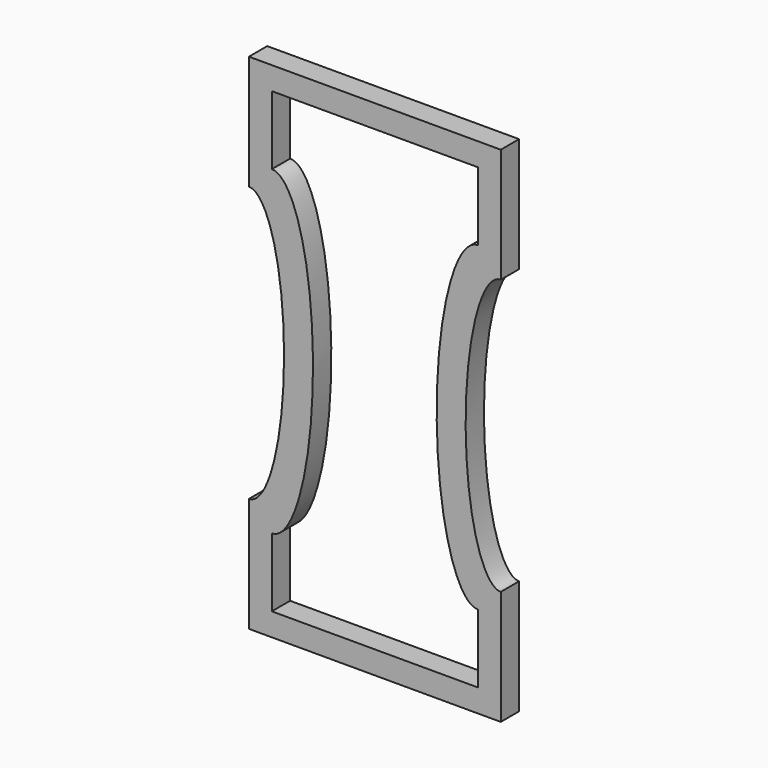
from build123d import *

# Parameters (mm, degrees)
F1_DEPTH = 6.35


with BuildPart() as f1:
    # F0 (on Front) → F1 (new body)
    with BuildSketch(Plane.XZ):
        with BuildLine():
            Line((-38.3565626979, 98.1763608873), (-108.2065626979, 98.1763608873))
            Line((-108.2065626979, 98.1763608873), (-108.2065626979, 66.4263608873))
            add(Edge.make_bspline(
                [(-107.7586281616, 66.3861143566), (-107.9824770745, 66.4263608873), (-108.2065626979, 66.4263608873)],
                knots=[6.2372173746, 6.2372173746, 6.2372173746, 6.2831853072, 6.2831853072, 6.2831853072], degree=2, weights=[1, 0.9997358803, 1]))
            add(Edge.make_bspline(
                [(-107.7586281616, -9.7333925821), (-98.4586297138, -8.0613153421), (-98.4586297138, 28.3263608873), (-98.4586297138, 64.7140371166), (-107.7586281616, 66.3861143566)],
                knots=[3.1875605862, 3.1875605862, 3.1875605862, 4.7123889804, 4.7123889804, 6.2372173746, 6.2372173746, 6.2372173746], degree=2, weights=[1, 0.7231707079, 1, 0.7231707079, 1]))
            add(Edge.make_bspline(
                [(-108.2065626979, -9.7736391127), (-107.9824770745, -9.7736391127), (-107.7586281616, -9.7333925821)],
                knots=[3.1415926536, 3.1415926536, 3.1415926536, 3.1875605862, 3.1875605862, 3.1875605862], degree=2, weights=[1, 0.9997358803, 1]))
            Line((-108.2065626979, -9.7736391127), (-108.2065626979, -41.5236391127))
            Line((-108.2065626979, -41.5236391127), (-38.3565626979, -41.5236391127))
            Line((-38.3565626979, -41.5236391127), (-38.3565626979, -9.7736391127))
            add(Edge.make_bspline(
                [(-38.3565626979, 66.4263608873), (-48.104495682, 66.4263608873), (-48.104495682, 28.3263608873), (-48.104495682, -9.7736391127), (-38.3565626979, -9.7736391127)],
                knots=[0, 0, 0, 1.5707963268, 1.5707963268, 3.1415926536, 3.1415926536, 3.1415926536], degree=2, weights=[1, 0.7071067812, 1, 0.7071067812, 1]))
            Line((-38.3565626979, 66.4263608873), (-38.3565626979, 98.1763608873))
        make_face()
        with BuildLine():
            Line((-101.8565626979, 72.7763608873), (-101.8565626979, 91.8263608873))
            Line((-101.8565626979, 91.8263608873), (-44.7065626979, 91.8263608873))
            Line((-44.7065626979, 91.8263608873), (-44.7065626979, 72.7763608873))
            add(Edge.make_bspline(
                [(-44.7065626979, 72.7763608873), (-56.1317765089, 72.7763608873), (-56.1317765089, 28.3263608873), (-56.1317765089, -16.1236391127), (-44.7065626979, -16.1236391127)],
                knots=[0, 0, 0, 1.5707963268, 1.5707963268, 3.1415926536, 3.1415926536, 3.1415926536], degree=2, weights=[1, 0.7071067812, 1, 0.7071067812, 1]))
            Line((-44.7065626979, -16.1236391127), (-44.7065626979, -35.1736391127))
            Line((-44.7065626979, -35.1736391127), (-101.8565626979, -35.1736391127))
            Line((-101.8565626979, -35.1736391127), (-101.8565626979, -16.1236391127))
            add(Edge.make_bspline(
                [(-101.8565626979, -16.1236391127), (-90.4313488869, -16.1236391127), (-90.4313488869, 28.3263608873), (-90.4313488869, 72.7763608873), (-101.8565626979, 72.7763608873)],
                knots=[3.1415926536, 3.1415926536, 3.1415926536, 4.7123889804, 4.7123889804, 6.2831853072, 6.2831853072, 6.2831853072], degree=2, weights=[1, 0.7071067812, 1, 0.7071067812, 1]))
        make_face(mode=Mode.SUBTRACT)
    extrude(amount=F1_DEPTH)


solid = f1.part
